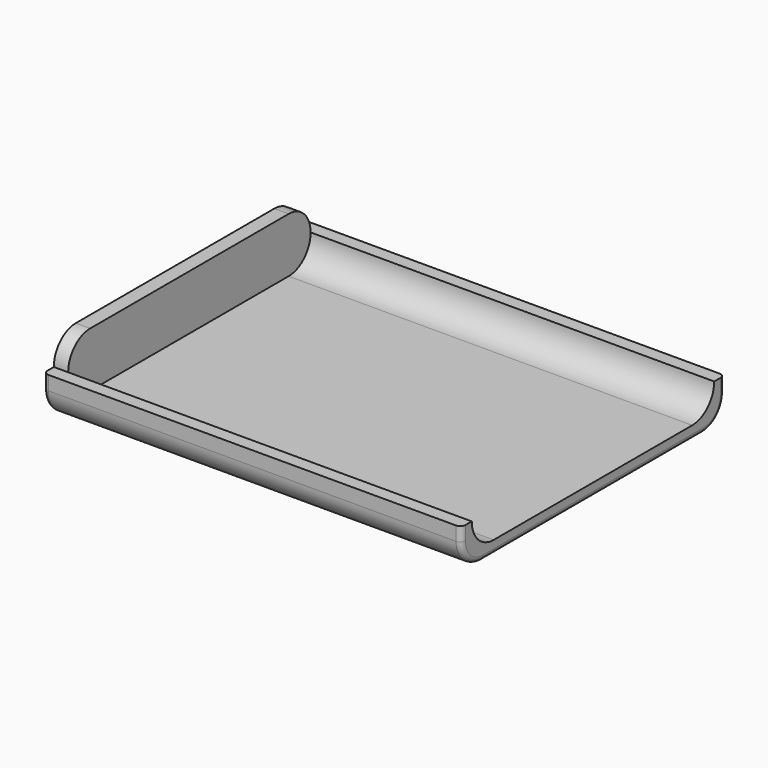
from build123d import *

# Parameters (mm, degrees)
F0_W     = 80
F0_H     = 63
F1_DEPTH = 15.5
F3_DEPTH = 77.25
F4_R     = 5.08
F5_R     = 1
F6_DEPTH = 98.552


with BuildPart() as f1:
    # F0 (on Top) → F1 (new body)
    with BuildSketch(Plane.XY):
        with Locations((8.368649, -7.845957)):
            Rectangle(F0_W, F0_H)
    extrude(amount=F1_DEPTH)

    # F2 (on face) → F3 (cut)
    with BuildSketch(Plane.YZ.offset(48.368649)):
        with BuildLine():
            Line((-31.595957, 2.5), (-7.845957, 2.5))
            Line((-7.845957, 2.5), (15.904043, 2.5))
            ThreePointArc((15.904043, 2.5), (19.616353, 4.037689), (21.154043, 7.75))
            ThreePointArc((21.154043, 7.75), (19.616353, 11.462311), (15.904043, 13))
            Line((15.904043, 13), (-7.845957, 13))
            Line((-7.845957, 13), (-31.595957, 13))
            ThreePointArc((-31.595957, 13), (-35.308268, 11.462311), (-36.845957, 7.75))
            ThreePointArc((-36.845957, 7.75), (-35.308268, 4.037689), (-31.595957, 2.5))
        make_face()
    extrude(amount=-F3_DEPTH, mode=Mode.SUBTRACT)

    # F4
    f4_edges = [f1.edges().sort_by_distance(p)[0] for p in [
        (8.368649, -39.345957, 15.5),
        (8.368649, -39.345957, 0),
        (8.368649, 23.654043, 15.5),
        (8.368649, 23.654043, 0),
    ]]
    fillet(f4_edges, radius=F4_R)

    # F5
    f5_edges = [f1.edges().sort_by_distance(p)[0] for p in [
        (-31.631351, -7.845957, 15.5),
        (48.368649, -7.845957, 15.5),
    ]]
    fillet(f5_edges, radius=F5_R)

    # F2 (on face) → F6 (cut)
    with BuildSketch(Plane.YZ.offset(48.368649)):
        with BuildLine():
            ThreePointArc((15.904043, 13), (19.616353, 11.462311), (21.154043, 7.75))
            Line((21.154043, 7.75), (23.654043, 7.75))
            Line((23.654043, 7.75), (23.654043, 15.5))
            Line((23.654043, 15.5), (-39.345957, 15.5))
            Line((-39.345957, 15.5), (-39.345957, 7.75))
            Line((-39.345957, 7.75), (-36.845957, 7.75))
            ThreePointArc((-36.845957, 7.75), (-35.308268, 11.462311), (-31.595957, 13))
            Line((-31.595957, 13), (-7.845957, 13))
            Line((-7.845957, 13), (15.904043, 13))
        make_face()
    extrude(amount=-F6_DEPTH, mode=Mode.SUBTRACT)


solid = f1.part
